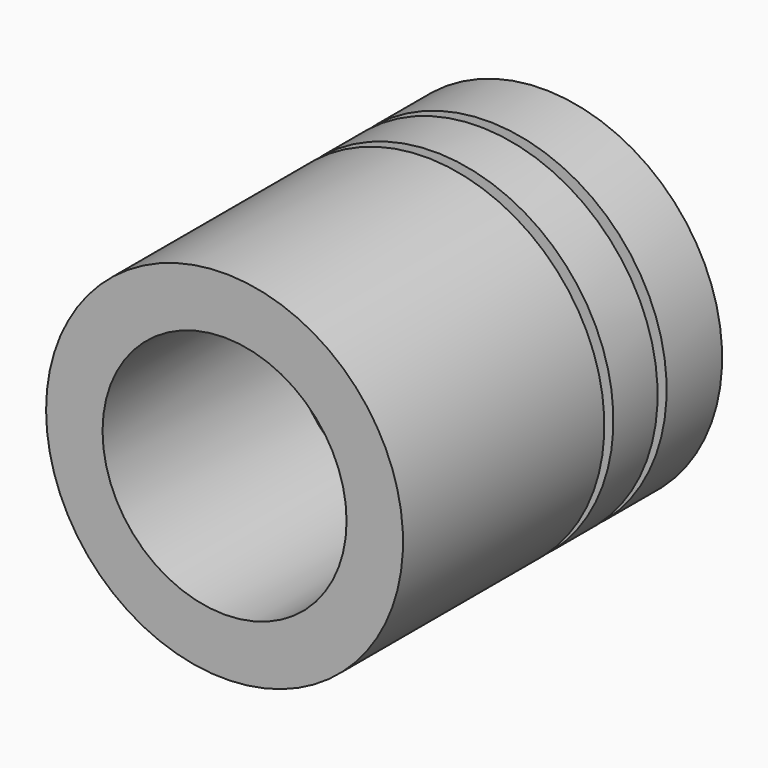
from build123d import *


with BuildPart() as f1:
    # F0 (on Top) → F1 (revolve)
    with BuildSketch(Plane.XY):
        Polygon((0, 38.326783), (0, 48.758922), (-21.51932, 48.758922), (-27.441061, 56.469635), (-40.141061, 56.469635), (-40.141061, 40.866783), (-27.441061, 40.866783), (-27.441061, 38.326783), (-40.141061, 38.326783), (-40.141061, 25.898929), (-27.441061, 25.898929), (-27.441061, 23.358929), (-40.141061, 23.358929), (-40.141061, -33.241566), (-27.441061, -33.241566), (-27.441061, 19.139083), (-21.51932, 19.139083), (-21.51932, 38.326783), align=None)
    revolve(axis=Axis((0, 43.542852, 0), (0, 1, 0)))


solid = f1.part
